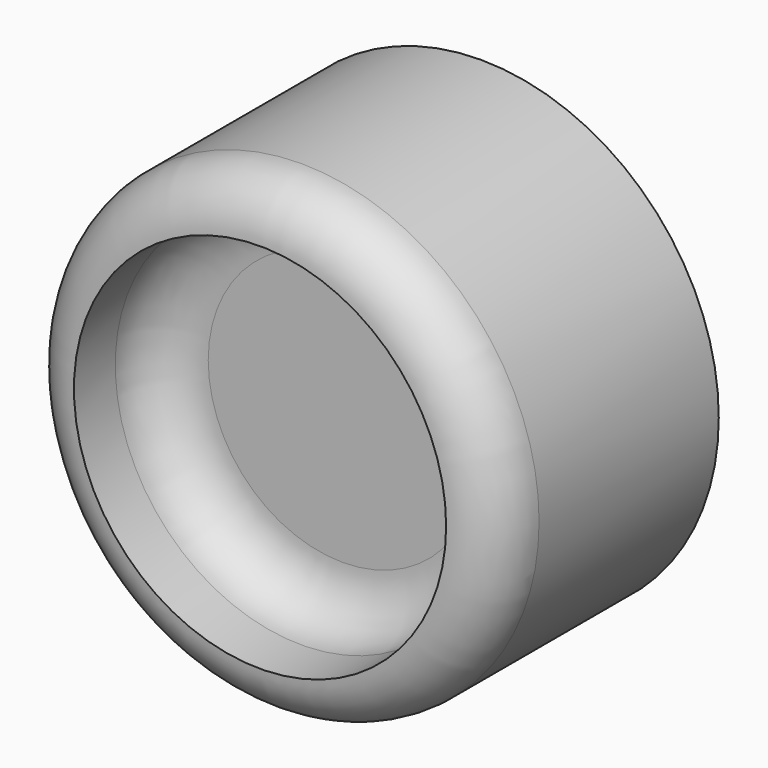
from build123d import *

# Parameters (mm, degrees)
F0_R     = 58.4672149413
F1_DEPTH = 67.945
F2_R     = 12.7
F3_R     = 45.7672149413
F3_R_2   = 18.3189453451
F4_DEPTH = 25.4
F5_R     = 12.7


with BuildPart() as f1:
    # F0 (on Front) → F1 (new body)
    with BuildSketch(Plane.XZ):
        Circle(F0_R)
    extrude(amount=F1_DEPTH)

    # F2
    f2_edges = [f1.edges().sort_by_distance(p)[0] for p in [
        (-58.467215, -67.945, 0),
    ]]
    fillet(f2_edges, radius=F2_R)

    # F3 (on face) → F4 (cut)
    with BuildSketch(Plane.XZ.offset(67.945)):
        Circle(F3_R)
        Circle(F3_R_2, mode=Mode.SUBTRACT)
        Circle(F3_R_2)
    extrude(amount=-F4_DEPTH, mode=Mode.SUBTRACT)

    # F5
    f5_edges = [f1.edges().sort_by_distance(p)[0] for p in [
        (-45.767215, -42.545, 0),
    ]]
    fillet(f5_edges, radius=F5_R)


solid = f1.part
